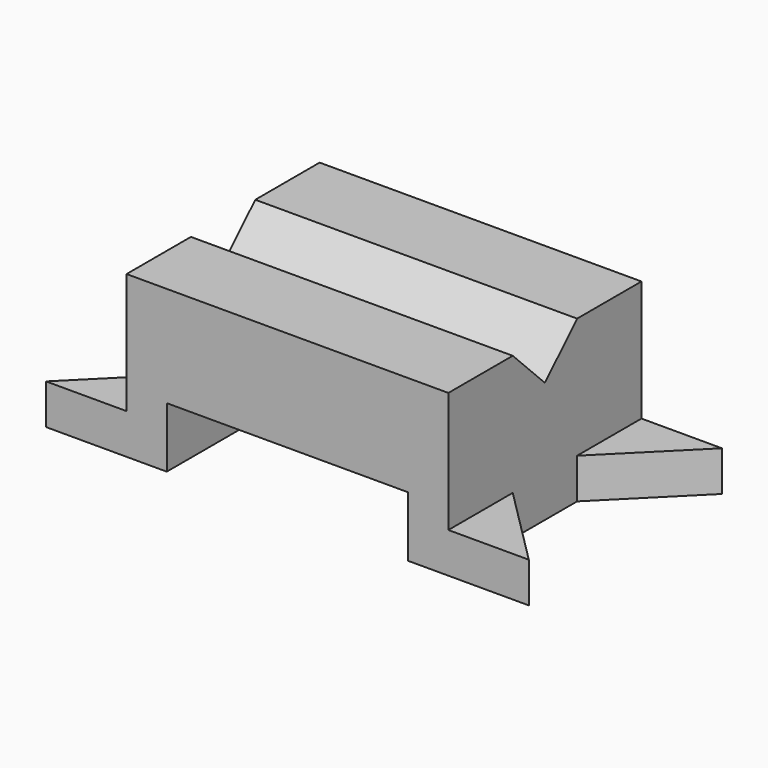
from build123d import *

# Parameters (mm, degrees)
F1_DEPTH = 76.2
F3_DEPTH = 12.7
F5_DEPTH = 12.7
F7_DEPTH = 101.6


with BuildPart() as f1:
    # F0 (on Front) → F1 (new body)
    with BuildSketch(Plane.XZ):
        Polygon((-76.4313191175, 12.7), (-76.4313191175, 0), (-38.3313191175, 0), (-38.3313191175, 19.05), (37.8686808825, 19.05), (37.8686808825, 0), (75.9686808825, 0), (75.9686808825, 12.7), (50.5686808825, 12.7), (50.5686808825, 50.8), (-51.0313191175, 50.8), (-51.0313191175, 12.7), align=None)
    extrude(amount=-F1_DEPTH)

    # F2 (on face) → F3 (cut, through all)
    with BuildSketch(Plane.XY.offset(12.7)):
        Polygon((-76.4313191175, 0), (-51.0313191175, 25.4), (-51.0313191175, 50.8), (-76.4313191175, 76.2), align=None)
    extrude(amount=-F3_DEPTH, mode=Mode.SUBTRACT)

    # F4 (on face) → F5 (cut, through all)
    with BuildSketch(Plane.XY.offset(12.7)):
        Polygon((50.5686808825, 25.4), (75.9686808825, 0), (75.9686808825, 76.2), (50.5686808825, 50.8), align=None)
    extrude(amount=-F5_DEPTH, mode=Mode.SUBTRACT)

    # F6 (on face) → F7 (cut, through all)
    with BuildSketch(Plane.YZ.offset(50.5686808825)):
        Polygon((50.8, 50.8), (25.4, 50.8), (38.1, 38.1), align=None)
    extrude(amount=-F7_DEPTH, mode=Mode.SUBTRACT)


solid = f1.part
